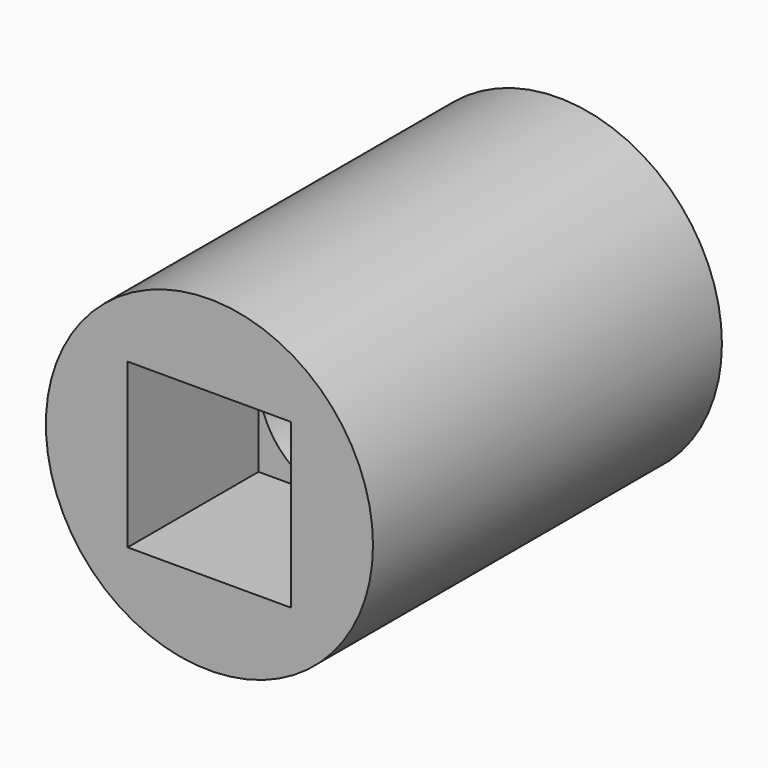
from build123d import *

# Parameters (mm, degrees)
F0_R     = 9.525
F1_DEPTH = 25.4
F3_DEPTH = 25.401
F4_DEPTH = 9.525
F6_DEPTH = 9.525


with BuildPart() as f1:
    # F0 (on Front) → F1 (new body)
    with BuildSketch(Plane.XZ):
        Circle(F0_R)
    extrude(amount=F1_DEPTH)

    # F2 (on face) → F3 (cut, through all)
    with BuildSketch(Plane.XZ.offset(25.4)):
        with BuildLine():
            ThreePointArc((-4.7625, 0), (-3.367596, -3.367596), (0, -4.7625))
            ThreePointArc((0, -4.7625), (3.367596, -3.367596), (4.7625, 0))
            ThreePointArc((4.7625, 0), (3.367596, 3.367596), (0, 4.7625))
            ThreePointArc((0, 4.7625), (-3.367596, 3.367596), (-4.7625, 0))
        make_face()
    extrude(amount=-F3_DEPTH, mode=Mode.SUBTRACT)

    # F2 (on face) → F4 (cut)
    with BuildSketch(Plane.XZ.offset(25.4)):
        with BuildLine():
            Line((0, -4.7625), (4.7625, -4.7625))
            Line((4.7625, -4.7625), (4.7625, 0))
            ThreePointArc((4.7625, 0), (3.367596, -3.367596), (0, -4.7625))
        make_face()
        with BuildLine():
            Line((-4.7625, -4.7625), (0, -4.7625))
            ThreePointArc((0, -4.7625), (-3.367596, -3.367596), (-4.7625, 0))
            Line((-4.7625, 0), (-4.7625, -4.7625))
        make_face()
        with BuildLine():
            ThreePointArc((0, 4.7625), (3.367596, 3.367596), (4.7625, 0))
            Line((4.7625, 0), (4.7625, 4.7625))
            Line((4.7625, 4.7625), (0, 4.7625))
        make_face()
        with BuildLine():
            Line((-4.7625, 4.7625), (-4.7625, 0))
            ThreePointArc((-4.7625, 0), (-3.367596, 3.367596), (0, 4.7625))
            Line((0, 4.7625), (-4.7625, 4.7625))
        make_face()
    extrude(amount=-F4_DEPTH, mode=Mode.SUBTRACT)

    # F5 (on Front) → F6 (cut)
    with BuildSketch(Plane.XZ):
        Polygon((6.324151, 3.65125), (0, 7.3025), (-6.324151, 3.65125), (-6.324151, -3.65125), (0, -7.3025), (6.324151, -3.65125), align=None)
    extrude(amount=F6_DEPTH, mode=Mode.SUBTRACT)


solid = f1.part
